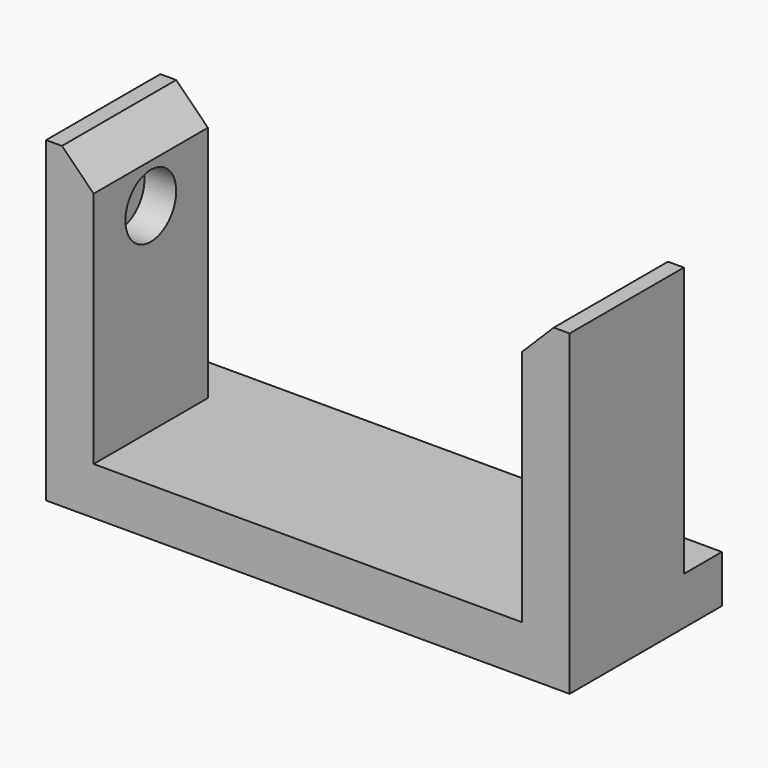
from build123d import *

# Parameters (mm, degrees)
F0_W     = 33
F0_H     = 12
F1_DEPTH = 3
F2_W     = 3
F2_H     = 9
F3_DEPTH = 17
F4_R     = 2
F5_DEPTH = 2
F6_SIZE  = 2


with BuildPart() as f1:
    # F0 (on Top) → F1 (new body)
    with BuildSketch(Plane.XY):
        Rectangle(F0_W, F0_H)
    extrude(amount=F1_DEPTH)

    # F2 (on face) → F3 (join)
    with BuildSketch(Plane.XY.offset(3)):
        with Locations((15, -1.5)):
            Rectangle(F2_W, F2_H)
    extrude(amount=F3_DEPTH)

    # F4 (on face) → F5 (cut)
    with BuildSketch(Plane(origin=(13.5, 0, 0), x_dir=(0, -1, 0), z_dir=(-1, 0, 0))):
        with Locations((1.5, 15.5)):
            Circle(F4_R)
    extrude(amount=-F5_DEPTH, mode=Mode.SUBTRACT)

    # F6
    f6_edges = [f1.edges().sort_by_distance(p)[0] for p in [
        (13.5, -1.5, 20),
    ]]
    chamfer(f6_edges, length=F6_SIZE)

    # F7: F1 across plane


with BuildPart() as f1_1:
    add(f1.part)
    add(f1.part.mirror(Plane.YZ))


solid = f1_1.part
